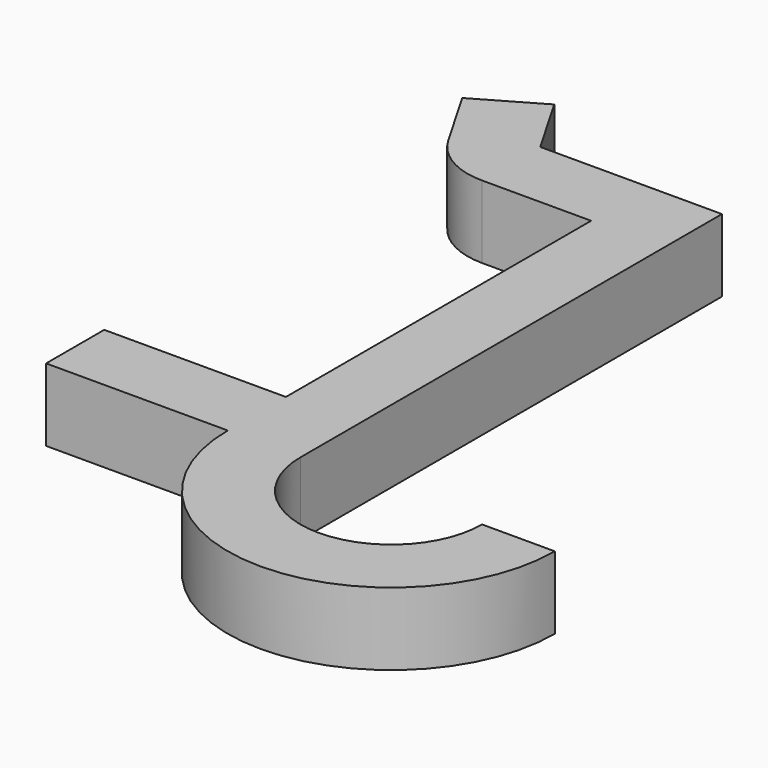
from build123d import *

# Parameters (mm, degrees)
PAD_DEPTH = 4


with BuildPart() as part:
    # Sketch → Pad (new body)
    with BuildSketch(Plane.XY):
        with BuildLine():
            Line((-5, 29), (-5, 0))
            ThreePointArc((-5, 0), (0, -5), (5, 0))
            Line((5, 0), (9, 0))
            ThreePointArc((-9, 0), (0, -9), (9, 0))
            Line((-19, 0), (-9, 0))
            Line((-19, 4), (-19, 0))
            Line((-9, 4), (-19, 4))
            Line((-9, 25), (-9, 4))
            Line((-15, 25), (-9, 25))
            ThreePointArc((-18.46412, 26.999997), (-17.00001, 25.535892), (-15, 25))
            Line((-20.464122, 30.464102), (-18.46412, 26.999997))
            Line((-17.00002, 32.464102), (-20.464122, 30.464102))
            Line((-15.00002, 29), (-17.00002, 32.464102))
            Line((-5, 29), (-15.00002, 29))
        make_face()
    extrude(amount=PAD_DEPTH)


solid = part.part
